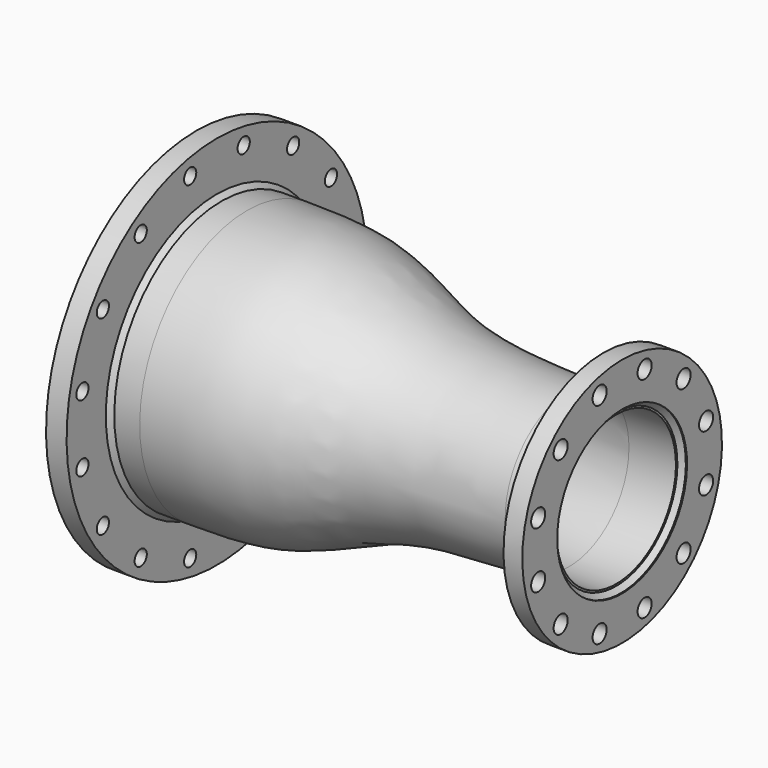
from build123d import *

# Parameters (mm, degrees)
F6_D     = 30
F6_DEPTH = 50
F6_TIP   = 9.0129092854
F8_D     = 26


with BuildPart() as f1:
    # F0 (on Front) → F1 (revolve)
    with BuildSketch(Plane.XZ):
        Polygon((-337.6619696266, 230), (-329.6619696266, 230), (-304.6619696266, 230), (-304.6619696266, 236.5), (-304.6619696266, 320), (-339.6619696266, 320), (-339.6619696266, 230), align=None)
    revolve(axis=Axis((45.028969672, 0, 0), (1, 0, 0)))

    # F8 (through all)
    with Locations(Plane(origin=(-339.6619696266, 0, 0), x_dir=(0, -1, 0), z_dir=(-1, 0, 0))):
        with Locations((-162.2265080417, 242.7891267923), (-242.7891267923, 162.2265080417), (-286.3893018777, 56.9663740287), (-286.3893018777, -56.9663740287), (-242.7891267923, -162.2265080417), (-56.9663740287, 286.3893018777), (56.9663740287, 286.3893018777), (162.2265080417, 242.7891267923), (242.7891267923, 162.2265080417), (286.3893018777, 56.9663740287), (286.3893018777, -56.9663740287), (242.7891267923, -162.2265080417), (162.2265080417, -242.7891267923), (56.9663740287, -286.3893018777), (-162.2265080417, -242.7891267923)):
            Hole(F8_D / 2)


with BuildPart() as f2:
    # F0 (on Front) → F2 (revolve)
    with BuildSketch(Plane.XZ):
        with BuildLine():
            add(Edge.make_bspline(
                [(-253.3748149872, 228.5), (-207.6811939478, 228.0596494675), (-107.9575658009, 229.4268890138), (23.480264241, 163.9475460602), (130.3051072184, 141.5938575123), (236.1741111698, 137.8832627127), (295.3158915043, 136.55)],
                knots=[0, 0, 0, 0, 0.2542116463, 0.5070615956, 0.7273664746, 1, 1, 1, 1], degree=3))
            Line((-253.3748149872, 228.5), (-253.4206936962, 218.97))
            add(Edge.make_bspline(
                [(-253.4206936962, 218.97), (-240.2009376391, 219.1843285332), (-206.9350282777, 219.7236602371), (-104.4913953456, 213.6592114843), (23.6305209991, 152.5518060653), (127.1706610346, 134.9560944534), (235.1658650843, 127.3504382511), (277.3244460023, 127.1188372265), (295.3158915043, 127.02)],
                knots=[0, 0, 0, 0, 0.1161918754, 0.2923827322, 0.5019993241, 0.6847543592, 0.8654668957, 1, 1, 1, 1], degree=3))
            Line((295.3158915043, 127.02), (295.3158915043, 136.55))
        make_face()
        Polygon((-304.6619696266, 228.5), (-329.6619696266, 228.5), (-329.6619696266, 222), (-329.6619696266, 218.97), (-253.4206936962, 218.97), (-253.3748149872, 228.5), (-296.6619696266, 228.5), align=None)
        Polygon((345.3380303734, 136.55), (295.3158915043, 136.55), (295.3158915043, 127.02), (375.3380303734, 127.02), (375.3380303734, 130.15), (375.3380303734, 136.55), (353.3380303734, 136.55), align=None)
    revolve(axis=Axis((45.028969672, 0, 0), (1, 0, 0)))


with BuildPart() as f3:
    # F0 (on Front) → F3 (revolve)
    with BuildSketch(Plane.XZ):
        Polygon((353.3380303734, 212.5), (353.3380303734, 144.55), (353.3380303734, 138.15), (375.3380303734, 138.15), (383.3380303734, 138.15), (385.3380303734, 138.15), (385.3380303734, 212.5), align=None)
    revolve(axis=Axis((45.028969672, 0, 0), (1, 0, 0)))

    # F6
    with Locations(Plane.YZ.offset(385.3380303734)):
        with Locations((178.6962778635, 47.881523344), (178.6962778635, -47.881523344), (130.8147545195, -130.8147545195), (47.881523344, -178.6962778635), (-47.881523344, -178.6962778635), (-130.8147545195, -130.8147545195), (-178.6962778635, -47.881523344), (-178.6962778635, 47.881523344), (-130.8147545195, 130.8147545195), (-47.881523344, 178.6962778635), (47.881523344, 178.6962778635), (130.8147545195, 130.8147545195)):
            Hole(F6_D / 2, depth=F6_DEPTH)
            with Locations((0, 0, -(F6_DEPTH + F6_TIP / 2))):  # 118° drill point
                Cone(0, F6_D / 2, F6_TIP, mode=Mode.SUBTRACT)


with BuildPart() as f4:
    # F0 (on Front) → F4 (revolve)
    with BuildSketch(Plane.XZ):
        Polygon((-329.6619696266, 222), (-329.6619696266, 228.5), (-329.6619696266, 230), (-337.6619696266, 230), align=None)
    revolve(axis=Axis((45.028969672, 0, 0), (1, 0, 0)))


with BuildPart() as f4b:
    # F0 (on Front) → F4, piece 2 (revolve)
    with BuildSketch(Plane.XZ):
        Polygon((-304.6619696266, 230), (-304.6619696266, 228.5), (-296.6619696266, 228.5), (-304.6619696266, 236.5), align=None)
    revolve(axis=Axis((45.028969672, 0, 0), (1, 0, 0)))


with BuildPart() as f4c:
    # F0 (on Front) → F4, piece 3 (revolve)
    with BuildSketch(Plane.XZ):
        Polygon((353.3380303734, 144.55), (345.3380303734, 136.55), (353.3380303734, 136.55), (353.3380303734, 138.15), align=None)
    revolve(axis=Axis((45.028969672, 0, 0), (1, 0, 0)))


with BuildPart() as f4d:
    # F0 (on Front) → F4, piece 4 (revolve)
    with BuildSketch(Plane.XZ):
        Polygon((375.3380303734, 136.55), (375.3380303734, 130.15), (383.3380303734, 138.15), (375.3380303734, 138.15), align=None)
    revolve(axis=Axis((45.028969672, 0, 0), (1, 0, 0)))


solid = Compound([f1.part, f2.part, f3.part, f4.part, f4b.part, f4c.part, f4d.part])
